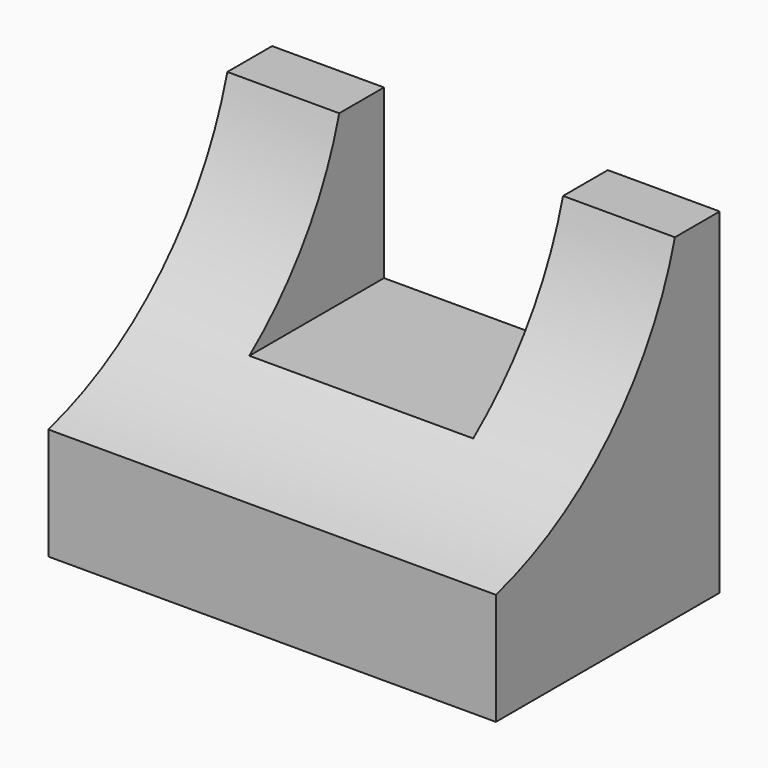
from build123d import *

# Parameters (mm, degrees)
F0_W     = 50.8
F0_H     = 38.1
F1_DEPTH = 31.75
F2_W     = 25.4
F2_H     = 19.05
F3_DEPTH = 38.1
F5_DEPTH = 76.2


with BuildPart() as f1:
    # F0 (on Front) → F1 (new body)
    with BuildSketch(Plane.XZ):
        with Locations((25.4, 19.05)):
            Rectangle(F0_W, F0_H)
    extrude(amount=F1_DEPTH)

    # F2 (on face) → F3 (cut)
    with BuildSketch(Plane.XZ.offset(31.75)):
        with Locations((25.4, 28.575)):
            Rectangle(F2_W, F2_H)
    extrude(amount=-F3_DEPTH, mode=Mode.SUBTRACT)

    # F4 (on face) → F5 (cut)
    with BuildSketch(Plane.YZ.offset(50.8)):
        with BuildLine():
            Line((-6.35, 38.1), (-31.75, 38.1))
            Line((-31.75, 38.1), (-31.75, 12.7))
            ThreePointArc((-31.75, 12.7), (-15.700044, 22.050044), (-6.35, 38.1))
        make_face()
    extrude(amount=-F5_DEPTH, mode=Mode.SUBTRACT)


solid = f1.part
